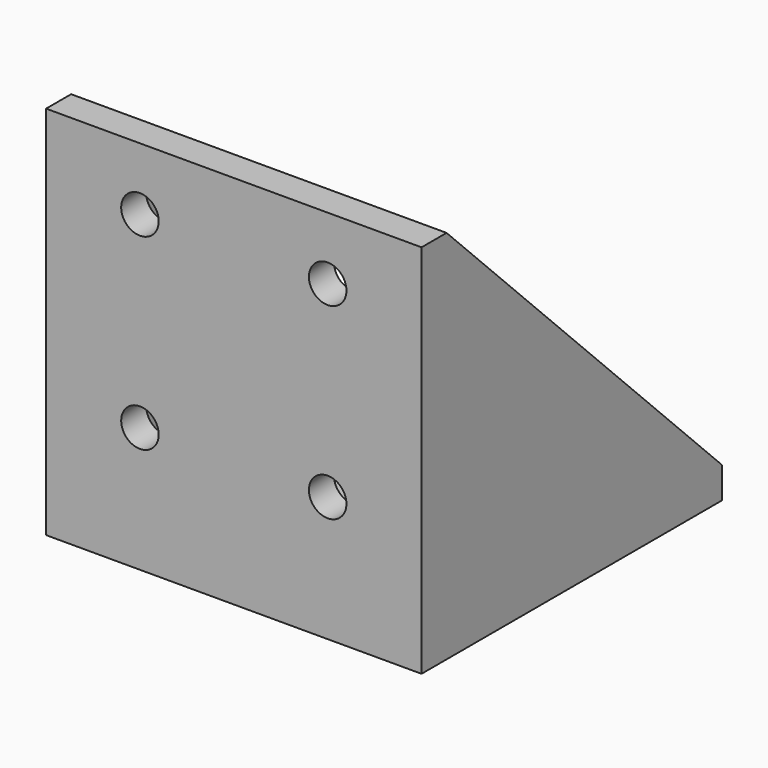
from build123d import *

# Parameters (mm, degrees)
F1_DEPTH  = 60
F3_DEPTH  = 5
F6_DEPTH  = 5
F7_R      = 3
F8_DEPTH  = 5.001
F9_R      = 4.25
F10_DEPTH = 5.001


with BuildPart() as f1:
    # F0 (on Right) → F1 (new body)
    with BuildSketch(Plane.YZ):
        Polygon((5, 60), (0, 60), (0, 0), (60, 0), (60, 5), (5, 5), align=None)
    extrude(amount=F1_DEPTH)

    # F2 (on Right) → F3 (join)
    with BuildSketch(Plane.YZ):
        Polygon((60, 5), (5, 60), (5, 5), align=None)
    extrude(amount=F3_DEPTH)

    # F5 (on offset) → F6 (join)
    with BuildSketch(Plane.YZ.offset(60)):
        Polygon((60, 5), (5, 60), (5, 5), align=None)
    extrude(amount=-F6_DEPTH)

    # F7 (on face) → F8 (cut, through all)
    with BuildSketch(Plane(origin=(0, 5, 0), x_dir=(-1, 0, 0), z_dir=(0, 1, 0))):
        with Locations((-15, 50)):
            Circle(F7_R)
        with Locations((-45, 50)):
            Circle(F7_R)
        with Locations((-15, 20)):
            Circle(F7_R)
        with Locations((-45, 20)):
            Circle(F7_R)
    extrude(amount=-F8_DEPTH, mode=Mode.SUBTRACT)

    # F9 (on face) → F10 (cut, through all)
    with BuildSketch(Plane.XY.offset(5)):
        with Locations((45, 50)):
            Circle(F9_R)
        with Locations((15, 50)):
            Circle(F9_R)
        with Locations((15, 20)):
            Circle(F9_R)
        with Locations((45, 20)):
            Circle(F9_R)
    extrude(amount=-F10_DEPTH, mode=Mode.SUBTRACT)


solid = f1.part
